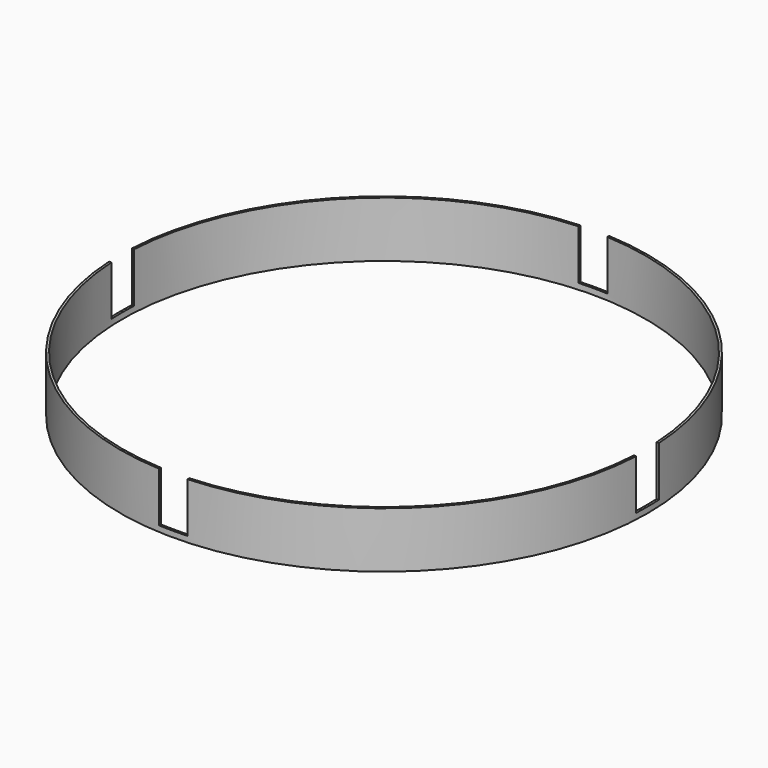
from build123d import *

# Parameters (mm, degrees)
F0_R     = 46.99
F0_R_2   = 46.5836
F1_DEPTH = 9.9314
F2_W     = 5.08
F2_H     = 12.7
F3_DEPTH = 76.2
F4_W     = 5.08
F4_H     = 12.7
F5_DEPTH = 76.2


with BuildPart() as f1:
    # F0 (on Top) → F1 (new body)
    with BuildSketch(Plane.XY):
        Circle(F0_R)
        Circle(F0_R_2, mode=Mode.SUBTRACT)
    extrude(amount=F1_DEPTH)

    # F2 (on Right) → F3 (cut, symmetric)
    with BuildSketch(Plane.YZ):
        with Locations((0, 7.4041)):
            Rectangle(F2_W, F2_H)
    extrude(amount=F3_DEPTH, both=True, mode=Mode.SUBTRACT)

    # F4 (on Front) → F5 (cut, symmetric)
    with BuildSketch(Plane.XZ):
        with Locations((0, 7.4041)):
            Rectangle(F4_W, F4_H)
    extrude(amount=F5_DEPTH, both=True, mode=Mode.SUBTRACT)


solid = f1.part
